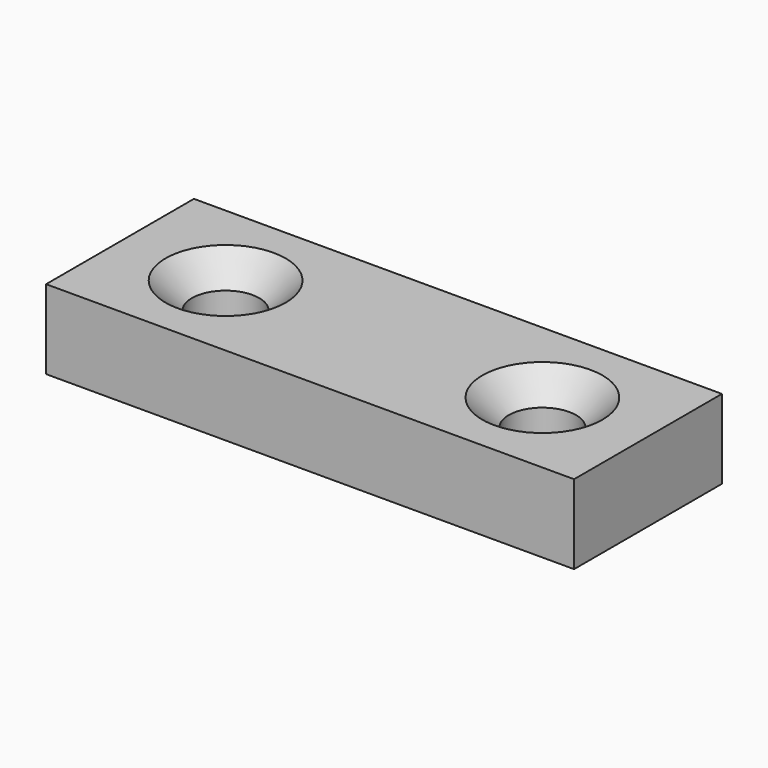
from build123d import *

# Parameters (mm, degrees)
SKETCH_W     = 40
SKETCH_H     = 14
SKETCH_R     = 2.55
PAD_DEPTH    = 6
CHAMFER_SIZE = 2


with BuildPart() as part:
    # Sketch → Pad (new body)
    with BuildSketch(Plane.XY):
        Rectangle(SKETCH_W, SKETCH_H)
        with Locations((-12, 0)):
            Circle(SKETCH_R, mode=Mode.SUBTRACT)
        with Locations((12, 0)):
            Circle(SKETCH_R, mode=Mode.SUBTRACT)
    extrude(amount=PAD_DEPTH)

    # Chamfer
    chamfer_edges = [part.edges().sort_by_distance(p)[0] for p in [
        (-14.55, 0, 6),
        (9.45, 0, 6),
    ]]
    chamfer(chamfer_edges, length=CHAMFER_SIZE)


solid = part.part
